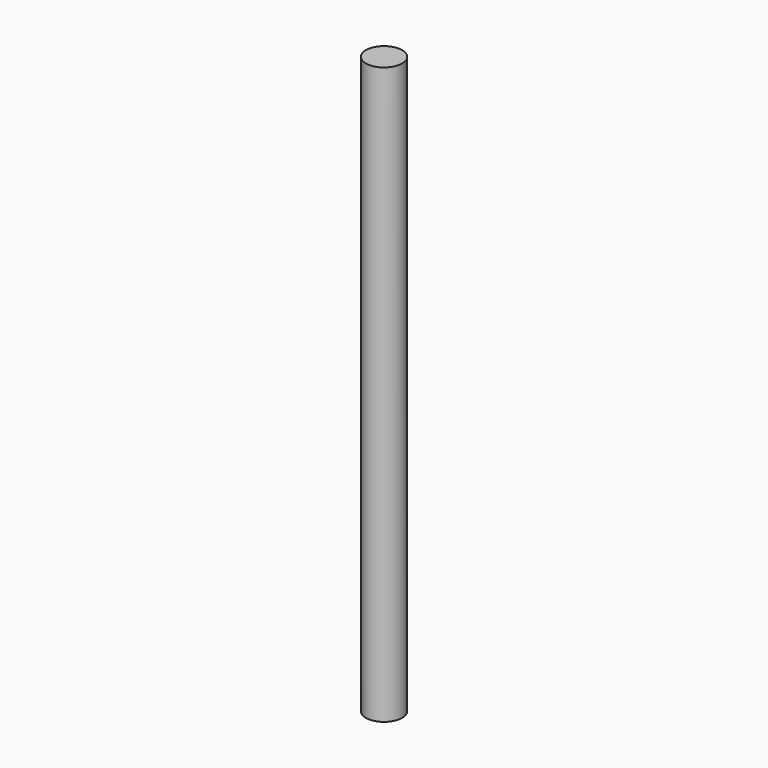
from build123d import *

# Parameters (mm, degrees)
CYLINDER_R     = 5.5
CYLINDER_DEPTH = 175


with BuildPart() as part:
    # Cylinder → Cylinder (new body)
    with BuildSketch(Plane.XY):
        Circle(CYLINDER_R)
    extrude(amount=CYLINDER_DEPTH)


solid = part.part
